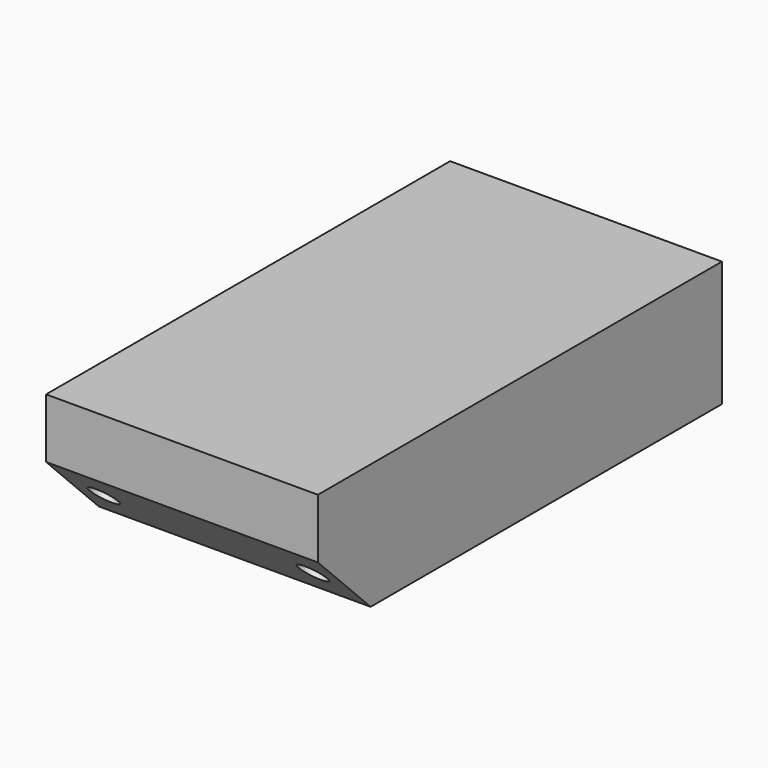
from build123d import *

# Parameters (mm, degrees)
F0_W           = 82.55
F0_H           = 38.1
F1_DEPTH       = 153.3652
F2_SIZE2       = 20.0152
F2_SIZE        = 20.0152
F5_D           = 8.72998
F5_DEPTH       = 25.4
F5_TIP         = 2.6227505934
F5_ON_F4_D     = 8.72998
F5_ON_F4_DEPTH = 25.4
F5_ON_F4_TIP   = 2.6227505934


with BuildPart() as f1:
    # F0 (on Front) → F1 (new body)
    with BuildSketch(Plane.XZ):
        Rectangle(F0_W, F0_H)
    extrude(amount=F1_DEPTH)

    # F2
    f2_edges = [f1.edges().sort_by_distance(p)[0] for p in [
        (0, -153.3652, -19.05),
    ]]
    chamfer(f2_edges, length=F2_SIZE, length2=F2_SIZE2)

    # F5
    with Locations(Plane(origin=(0, -76.2, -76.2), x_dir=(1, 0, 0), z_dir=(0, -0.7071067812, -0.7071067812))):
        with Locations((-31.75, 94.9751887364), (31.75, 94.9751887364)):
            Hole(F5_D / 2, depth=F5_DEPTH)
            with Locations((0, 0, -(F5_DEPTH + F5_TIP / 2))):  # 118° drill point
                Cone(0, F5_D / 2, F5_TIP, mode=Mode.SUBTRACT)

    # F5 on F4
    with Locations(Plane(origin=(0, 0, 0), x_dir=(-1, 0, 0), z_dir=(0, 1, 0))):
        with Locations((-20.6375, 0), (20.6375, 0)):
            Hole(F5_ON_F4_D / 2, depth=F5_ON_F4_DEPTH)
            with Locations((0, 0, -(F5_ON_F4_DEPTH + F5_ON_F4_TIP / 2))):  # 118° drill point
                Cone(0, F5_ON_F4_D / 2, F5_ON_F4_TIP, mode=Mode.SUBTRACT)


solid = f1.part
